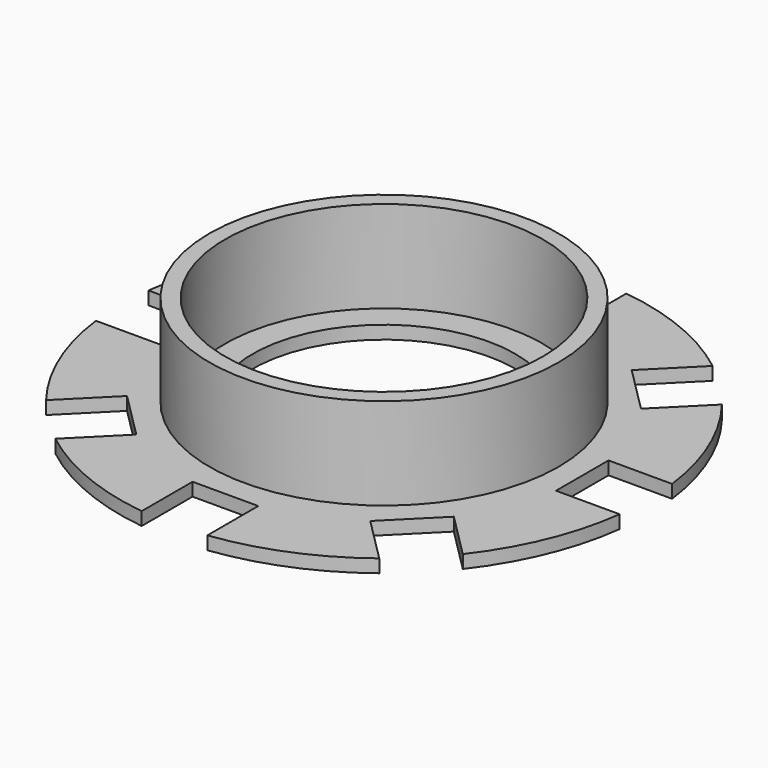
from build123d import *

# Parameters (mm, degrees)
F0_R     = 20.1
F0_R_2   = 13.3
F0_R_3   = 12.1
F0_R_4   = 10
F1_DEPTH = 1
F2_DEPTH = 8
F3_W     = 5
F3_H     = 10
F3_W_2   = 10
F3_H_2   = 5
F4_DEPTH = 1.001


with BuildPart() as f1:
    # F0 (on Top) → F1 (new body)
    with BuildSketch(Plane.XY):
        Circle(F0_R)
        Circle(F0_R_2, mode=Mode.SUBTRACT)
        Circle(F0_R_2)
        Circle(F0_R_3, mode=Mode.SUBTRACT)
        Circle(F0_R_3)
        Circle(F0_R_4, mode=Mode.SUBTRACT)
    extrude(amount=F1_DEPTH)

    # F0 (on Top) → F2 (join)
    with BuildSketch(Plane.XY):
        Circle(F0_R_2)
        Circle(F0_R_3, mode=Mode.SUBTRACT)
    extrude(amount=F2_DEPTH)

    # F3 (on face) → F4 (cut, through all)
    with BuildSketch(Plane.XY.offset(1)):
        with Locations((0, 20.1)):
            Rectangle(F3_W, F3_H)
        Polygon((-8.909545443, 12.4450793489), (-15.9806132548, 19.5161471607), (-19.5161471607, 15.9806132548), (-12.4450793489, 8.909545443), align=None)
        with Locations((-20.1, 0)):
            Rectangle(F3_W_2, F3_H_2)
        Polygon((-12.4450793489, -8.909545443), (-19.5161471607, -15.9806132548), (-15.9806132548, -19.5161471607), (-8.909545443, -12.4450793489), align=None)
        with Locations((0, -20.1)):
            Rectangle(F3_W, F3_H)
        Polygon((8.909545443, -12.4450793489), (15.9806132548, -19.5161471607), (19.5161471607, -15.9806132548), (12.4450793489, -8.909545443), align=None)
        with Locations((20.1, 0)):
            Rectangle(F3_W_2, F3_H_2)
        Polygon((12.4450793489, 8.909545443), (19.5161471607, 15.9806132548), (15.9806132548, 19.5161471607), (8.909545443, 12.4450793489), align=None)
    extrude(amount=-F4_DEPTH, mode=Mode.SUBTRACT)


solid = f1.part
